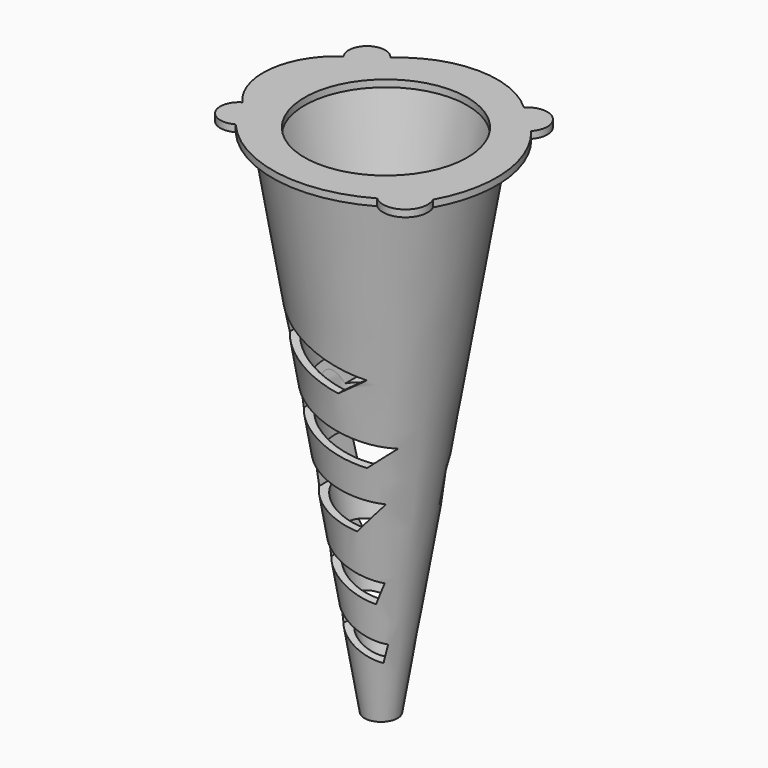
from build123d import *

# Parameters (mm, degrees)
F2_R      = 33.0835
F3_R      = 5.461
F5_T      = -2.54
F8_DEPTH  = 90.424
F10_DEPTH = 2.286
F11_R     = 26.7767955421
F12_DEPTH = 20.574


with BuildPart() as f4:
    # F2 (on offset) → F4 section 0
    with BuildSketch(Plane.XY.offset(87.376)):
        Circle(F2_R)
    # F3 (on offset) → F4 section 1
    with BuildSketch(Plane.XY.offset(-80.264)):
        Circle(F3_R)
    loft()

    # F5
    f5_openings = [f4.faces().sort_by_distance(p)[0] for p in [
        (0, 0, 87.376),
    ]]
    offset(amount=F5_T, openings=f5_openings, kind=Kind.INTERSECTION)

    # F7 (on offset) → F8 (cut)
    with BuildSketch(Plane.XZ.offset(-33.274)):
        Polygon((7.2469562292, -55.821005255), (-10.5406511575, -47.1849963069), (-7.9627372324, -54.7898411751), (5.8291028254, -61.6213157773), align=None)
        Polygon((-12.987045992, -28.3675191), (-10.5406511575, -35.5843827128), (6.2097211414, -43.0105263684), (8.6648091674, -36.3577567041), align=None)
        Polygon((-16.3409579545, -4.6494142152), (-13.8919390738, -15.9922353923), (4.0245633572, -20.6324812025), (11.5005131811, -11.3519905135), align=None)
        Polygon((-19.2826890827, 16.0057449445), (-16.3409579545, 7.3276394978), (8.6648091674, 0), (15.4022630304, 6.0269851238), align=None)
        Polygon((-19.2826890827, 39.1713567078), (-19.2826890827, 29.1993264109), (3.5543837585, 22.1851039678), (11.5005131811, 27.8113555213), align=None)
    extrude(amount=F8_DEPTH, mode=Mode.SUBTRACT)

    # F9 (on offset) → F10 (join)
    with BuildSketch(Plane.XY.offset(87.376)):
        with BuildLine():
            ThreePointArc((-35.9650850296, -12.119741179), (-38.0913082045, -20.5690913054), (-29.6588800848, -22.761464119))
            ThreePointArc((-29.6588800848, -22.761464119), (-4.2577579723, -37.2069935895), (24.5350878686, -32.2207771242))
            ThreePointArc((24.5350878686, -32.2207771242), (33.7905432246, -32.7064272786), (36.1621566117, -23.7468089908))
            ThreePointArc((36.1621566117, -23.7468089908), (41.1105620393, -0.3473779509), (32.0237055421, 21.7761192471))
            ThreePointArc((32.0237055421, 21.7761192471), (31.6611388158, 31.0655624038), (22.3673284054, 30.8412928134))
            ThreePointArc((22.3673284054, 30.8412928134), (0.3392668677, 39.5477499116), (-21.7761211097, 31.0655624038))
            ThreePointArc((-21.7761211097, 31.0655624038), (-30.1897966866, 32.5650475303), (-31.6295698285, 24.1409484297))
            ThreePointArc((-31.6295698285, 24.1409484297), (-41.9013508233, 6.9795624895), (-35.9650850296, -12.119741179))
        make_face()
    extrude(amount=F10_DEPTH)

    # F11 (on face) → F12 (cut)
    with BuildSketch(Plane.XY.offset(89.662)):
        with Locations((1.6233043279, 0)):
            Circle(F11_R)
    extrude(amount=-F12_DEPTH, mode=Mode.SUBTRACT)


solid = f4.part
